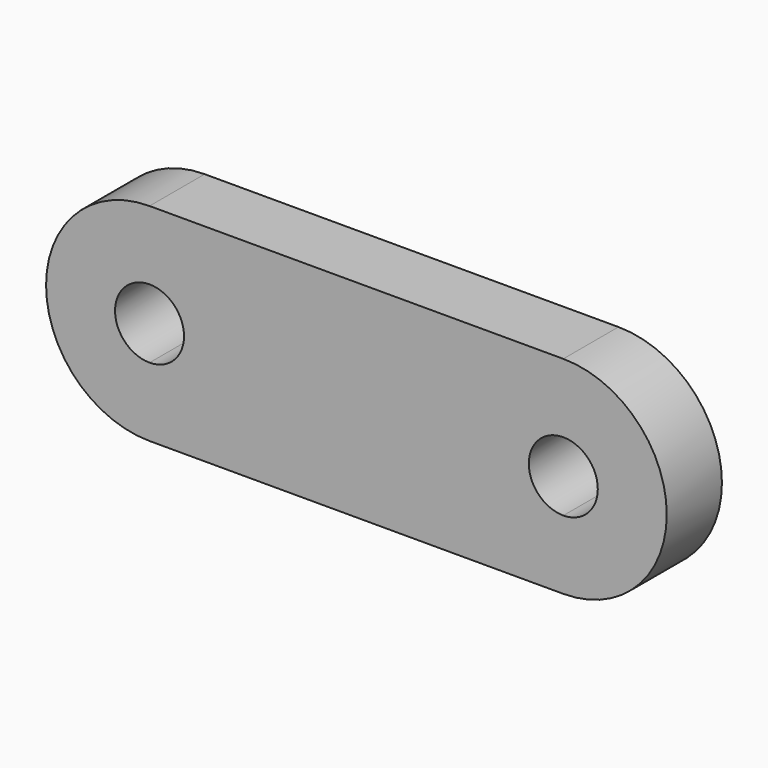
from build123d import *

# Parameters (mm, degrees)
F1_DEPTH = 6.35


with BuildPart() as f1:
    # F0 (on Front) → F1 (new body)
    with BuildSketch(Plane.XZ):
        with BuildLine():
            Line((19.05, 3.175), (19.05, 9.525))
            Line((19.05, 9.525), (-19.05, 9.525))
            Line((-19.05, 9.525), (-19.05, 3.175))
            ThreePointArc((-19.05, 3.175), (-16.804936, 2.245064), (-15.875, 0))
            ThreePointArc((-15.875, 0), (-16.804936, -2.245064), (-19.05, -3.175))
            Line((-19.05, -3.175), (-19.05, -9.525))
            Line((-19.05, -9.525), (19.05, -9.525))
            Line((19.05, -9.525), (19.05, -3.175))
            ThreePointArc((19.05, -3.175), (15.875, 0), (19.05, 3.175))
        make_face()
        with BuildLine():
            Line((-19.05, 3.175), (-19.05, 9.525))
            ThreePointArc((-19.05, 9.525), (-28.575, 0), (-19.05, -9.525))
            Line((-19.05, -9.525), (-19.05, -3.175))
            ThreePointArc((-19.05, -3.175), (-22.225, 0), (-19.05, 3.175))
        make_face()
        with BuildLine():
            ThreePointArc((19.05, -9.525), (28.575, 0), (19.05, 9.525))
            Line((19.05, 9.525), (19.05, 3.175))
            ThreePointArc((19.05, 3.175), (21.295064, 2.245064), (22.225, 0))
            ThreePointArc((22.225, 0), (21.295064, -2.245064), (19.05, -3.175))
            Line((19.05, -3.175), (19.05, -9.525))
        make_face()
    extrude(amount=F1_DEPTH)


solid = f1.part
